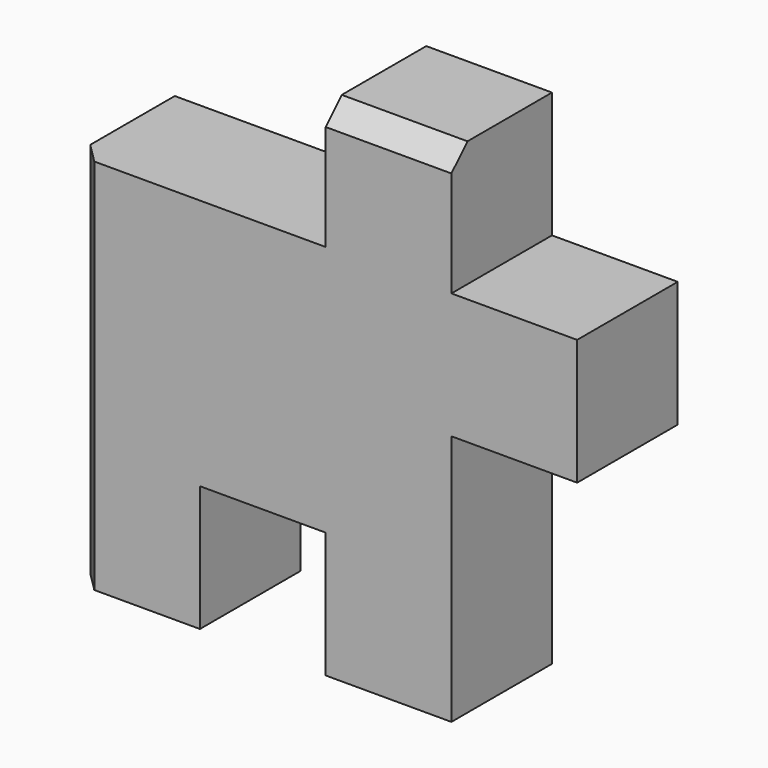
from build123d import *

# Parameters (mm, degrees)
F0_W     = 6.35
F0_H     = 6.35
F1_DEPTH = 6.35
F2_SIZE  = 1.016
F3_SIZE  = 1.016


with BuildPart() as f1:
    # F0 (on Front) → F1 (new body)
    with BuildSketch(Plane.XZ):
        Polygon((0, -12.7), (6.35, -12.7), (6.35, 0), (12.7, 0), (12.7, 6.35), (6.35, 6.35), (0, 6.35), (-12.7, 6.35), (-12.7, -12.7), (-6.35, -12.7), (-6.35, -6.35), (0, -6.35), align=None)
        with Locations((3.175, 9.525)):
            Rectangle(F0_W, F0_H)
    extrude(amount=F1_DEPTH)

    # F2
    f2_edges = [f1.edges().sort_by_distance(p)[0] for p in [
        (-12.7, -6.35, -3.175),
    ]]
    chamfer(f2_edges, length=F2_SIZE)

    # F3
    f3_edges = [f1.edges().sort_by_distance(p)[0] for p in [
        (3.175, -6.35, 12.7),
    ]]
    chamfer(f3_edges, length=F3_SIZE)


solid = f1.part
